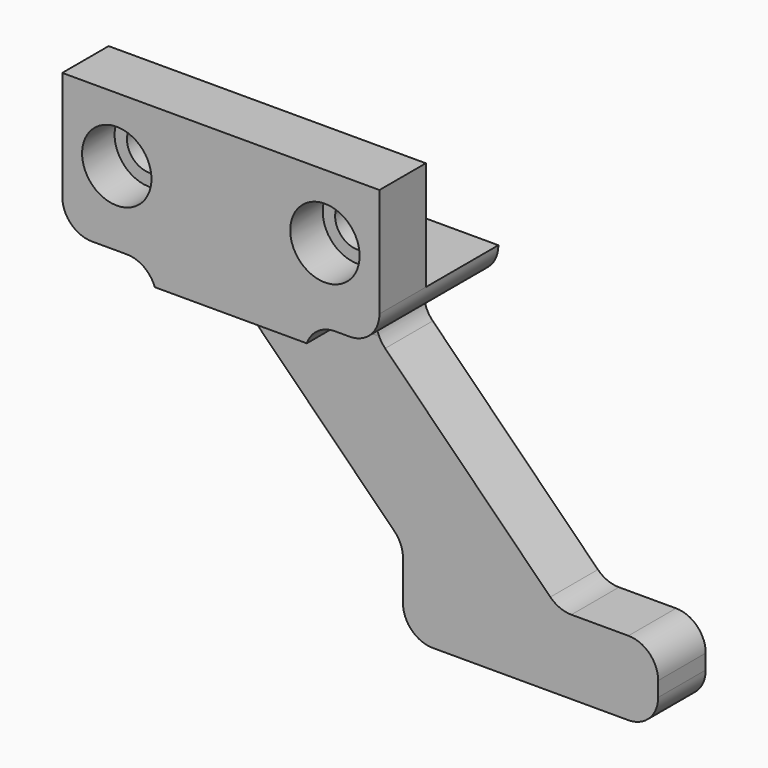
from build123d import *

# Parameters (mm, degrees)
F1_DEPTH = 15
F2_R     = 3.5
F3_DEPTH = 4.1
F4_R     = 2.25
F5_DEPTH = 25
F6_W     = 9.15
F6_H     = 11
F7_DEPTH = 52.92131


with BuildPart() as f1:
    # F0 (on Front) → F1 (new body)
    with BuildSketch(Plane.XZ):
        with BuildLine():
            Line((32, 0), (0, 0))
            Line((0, 0), (0, -11))
            ThreePointArc((0, -11), (0.87868, -13.12132), (3, -14))
            Line((3, -14), (6.5, -14))
            ThreePointArc((6.5, -14), (8.62132, -14.87868), (9.5, -17))
            Line((9.5, -17), (9.5, -17.757359))
            ThreePointArc((9.5, -17.757359), (9.728361, -18.90541), (10.37868, -19.87868))
            Line((10.37868, -19.87868), (26.29899, -35.79899))
            ThreePointArc((26.29899, -35.79899), (26.949308, -36.77226), (27.17767, -37.92031))
            Line((27.17767, -37.92031), (27.17767, -41.92031))
            ThreePointArc((27.17767, -41.92031), (28.056349, -44.041631), (30.17767, -44.92031))
            Line((30.17767, -44.92031), (49.92031, -44.92031))
            ThreePointArc((49.92031, -44.92031), (52.041631, -44.041631), (52.92031, -41.92031))
            Line((52.92031, -41.92031), (52.92031, -40.42031))
            ThreePointArc((52.92031, -40.42031), (52.041631, -38.29899), (49.92031, -37.42031))
            Line((49.92031, -37.42031), (44.162951, -37.42031))
            ThreePointArc((44.162951, -37.42031), (43.014901, -37.191949), (42.041631, -36.541631))
            Line((42.041631, -36.541631), (25.37868, -19.87868))
            ThreePointArc((25.37868, -19.87868), (24.728361, -18.90541), (24.5, -17.757359))
            Line((24.5, -17.757359), (24.5, -17))
            ThreePointArc((24.5, -17), (25.37868, -14.87868), (27.5, -14))
            Line((27.5, -14), (29, -14))
            ThreePointArc((29, -14), (31.12132, -13.12132), (32, -11))
            Line((32, -11), (32, 0))
        make_face()
    extrude(amount=F1_DEPTH)

    # F2 (on face) → F3 (cut)
    with BuildSketch(Plane.XZ.offset(15)):
        with Locations((26.5, -6.5)):
            Circle(F2_R)
        with Locations((5.5, -6.5)):
            Circle(F2_R)
    extrude(amount=-F3_DEPTH, mode=Mode.SUBTRACT)

    # F4 (on face) → F5 (cut)
    with BuildSketch(Plane.XZ.offset(15)):
        with Locations((5.5, -6.5)):
            Circle(F4_R)
        with Locations((26.5, -6.5)):
            Circle(F4_R)
    extrude(amount=-F5_DEPTH, mode=Mode.SUBTRACT)

    # F6 (on face) → F7 (cut, through all)
    with BuildSketch(Plane(origin=(0, 0, 0), x_dir=(0, -1, 0), z_dir=(-1, 0, 0))):
        with Locations((4.575, -5.5)):
            Rectangle(F6_W, F6_H)
        with BuildLine():
            ThreePointArc((6, -45), (6.87868, -47.12132), (9, -48))
            Line((9, -48), (15, -48))
            Line((15, -48), (15, -16))
            Line((15, -16), (9, -16))
            ThreePointArc((9, -16), (6.87868, -16.87868), (6, -19))
            Line((6, -19), (6, -45))
        make_face()
    extrude(amount=-F7_DEPTH, mode=Mode.SUBTRACT)


solid = f1.part
